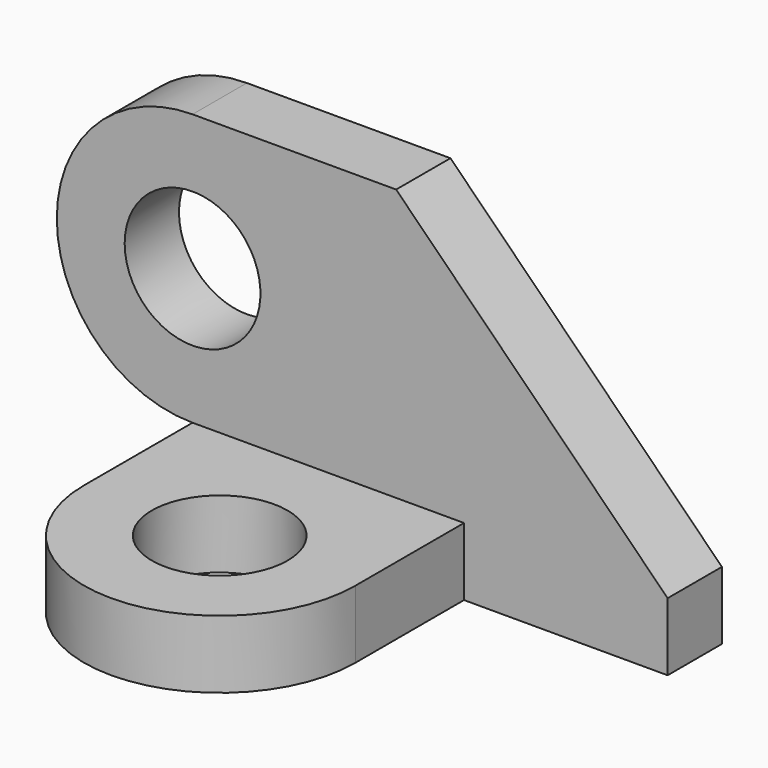
from build123d import *

# Parameters (mm, degrees)
F0_R     = 10
F1_DEPTH = 10
F2_R     = 10
F3_DEPTH = 10


with BuildPart() as f1:
    # F0 (on Top) → F1 (new body)
    with BuildSketch(Plane.XY):
        with BuildLine():
            Line((40, 30), (0, 30))
            Line((0, 30), (0, 0))
            ThreePointArc((0, 0), (20, -20), (40, 0))
            Line((40, 0), (40, 30))
        make_face()
        with Locations((20, 0)):
            Circle(F0_R, mode=Mode.SUBTRACT)
    extrude(amount=F1_DEPTH)

    # F2 (on face) → F3 (join)
    with BuildSketch(Plane(origin=(0, 30, 0), x_dir=(-1, 0, 0), z_dir=(0, 1, 0))):
        with BuildLine():
            Line((-70, 0), (-40, 0))
            Line((-40, 0), (-40, 10))
            Line((-40, 10), (0, 10))
            ThreePointArc((0, 10), (20, 30), (0, 50))
            Line((0, 50), (-30, 50))
            Line((-30, 50), (-70, 10))
            Line((-70, 10), (-70, 0))
        make_face()
        with Locations((0, 30)):
            Circle(F2_R, mode=Mode.SUBTRACT)
    extrude(amount=-F3_DEPTH)


solid = f1.part
